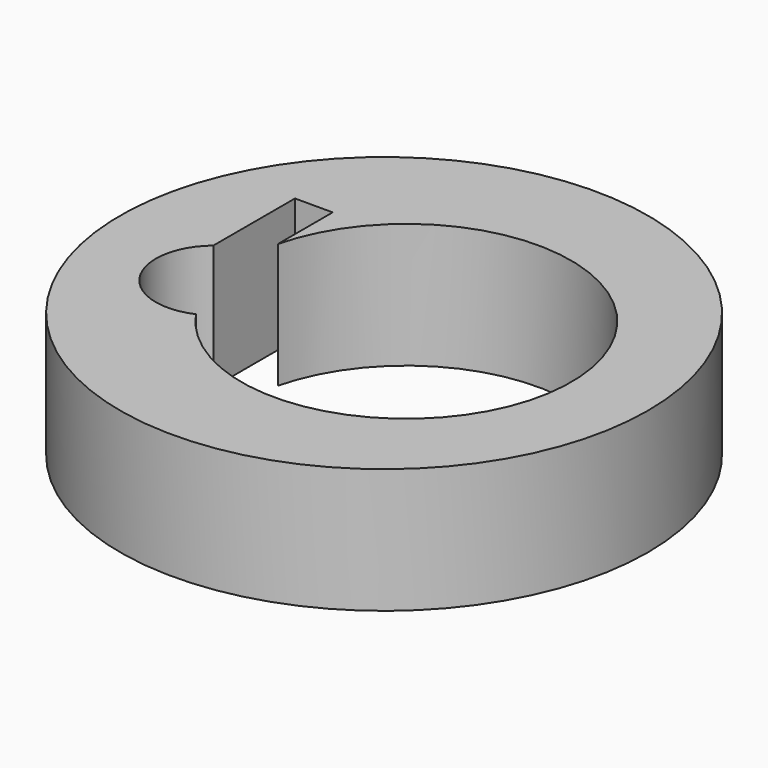
from build123d import *

# Parameters (mm, degrees)
F0_R     = 52.884546
F0_R_2   = 33.012326
F1_DEPTH = 25
F2_W     = 7.556897
F2_H     = 29.523836
F3_DEPTH = 25
F4_R     = 11.814692
F5_DEPTH = 25


with BuildPart() as f1:
    # F0 (on Top) → F1 (new body)
    with BuildSketch(Plane.XY):
        with Locations((-60.435541, 15.276187)):
            Circle(F0_R)
        with Locations((-55.982087, 15.276187)):
            Circle(F0_R_2, mode=Mode.SUBTRACT)
    extrude(amount=F1_DEPTH)

    # F2 (on face) → F3 (cut)
    with BuildSketch(Plane(origin=(0, 0, 0), x_dir=(1, 0, 0), z_dir=(0, 0, -1))):
        with Locations((-91.813431, -22.13712)):
            Rectangle(F2_W, F2_H)
    extrude(amount=-F3_DEPTH, mode=Mode.SUBTRACT)

    # F4 (on face) → F5 (cut)
    with BuildSketch(Plane(origin=(0, 0, 0), x_dir=(1, 0, 0), z_dir=(0, 0, -1))):
        with Locations((-88.034983, -7.375202)):
            Circle(F4_R)
    extrude(amount=-F5_DEPTH, mode=Mode.SUBTRACT)


solid = f1.part
